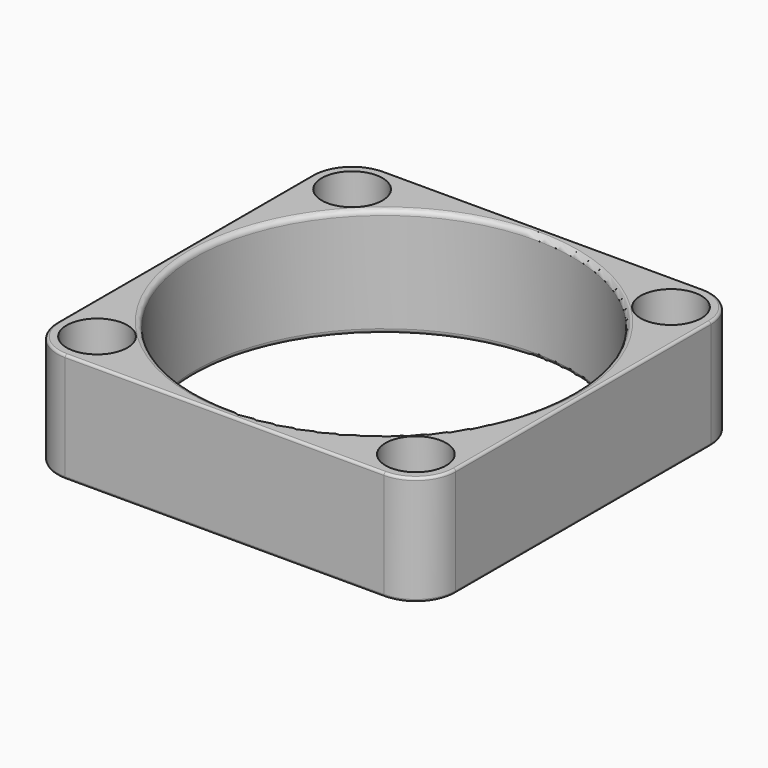
from build123d import *

# Parameters (mm, degrees)
SKETCH083_W         = 40
SKETCH083_H         = 40
PAD034_DEPTH        = 11
SKETCH073_R         = 19
POCKET023_DEPTH     = 11.001
HOLE007_D           = 3.9
HOLE007_DEPTH       = 25
HOLE007_CBORE_D     = 6.1
HOLE007_CBORE_DEPTH = 3.9
FILLET034_R         = 4
FILLET038_R         = 0.5
FILLET035_R         = 0.25


with BuildPart() as part:
    # Sketch083 → Pad034 (new body)
    with BuildSketch(Plane.XY):
        Rectangle(SKETCH083_W, SKETCH083_H)
    extrude(amount=PAD034_DEPTH)

    # Sketch073 (on Face6 of Pad034) → Pocket023 (cut, through all)
    with BuildSketch(Plane.XY.offset(11)):
        Circle(SKETCH073_R)
    extrude(amount=-POCKET023_DEPTH, mode=Mode.SUBTRACT)

    # Hole007
    with Locations(Plane.XY.offset(11)):
        with Locations((16, 16), (16, -16), (-16, 16), (-16, -16)):
            CounterBoreHole(HOLE007_D / 2, HOLE007_CBORE_D / 2, HOLE007_CBORE_DEPTH, depth=HOLE007_DEPTH)

    # Fillet034
    fillet034_edges = [part.edges().sort_by_distance(p)[0] for p in [
        (20, 20, 5.5),
        (-20, 20, 5.5),
        (-20, -20, 5.5),
        (20, -20, 5.5),
    ]]
    fillet(fillet034_edges, radius=FILLET034_R)

    # Fillet038
    fillet038_edges = [part.edges().sort_by_distance(p)[0] for p in [
        (-19, 0, 11),
        (19, 0, 5.5),
        (-19, 0, 0),
    ]]
    fillet(fillet038_edges, radius=FILLET038_R)

    # Fillet035
    fillet035_edges = [part.edges().sort_by_distance(p)[0] for p in [
        (0, -20, 0),
        (16, -20, 5.5),
        (-16, -20, 5.5),
        (0, -20, 11),
        (20, 0, 0),
        (20, 16, 5.5),
        (20, -16, 5.5),
        (20, 0, 11),
        (0, 20, 0),
        (-16, 20, 5.5),
        (16, 20, 5.5),
        (0, 20, 11),
        (-20, 0, 0),
        (-20, -16, 5.5),
        (-20, 16, 5.5),
        (-20, 0, 11),
    ]]
    fillet(fillet035_edges, radius=FILLET035_R)


solid = part.part
